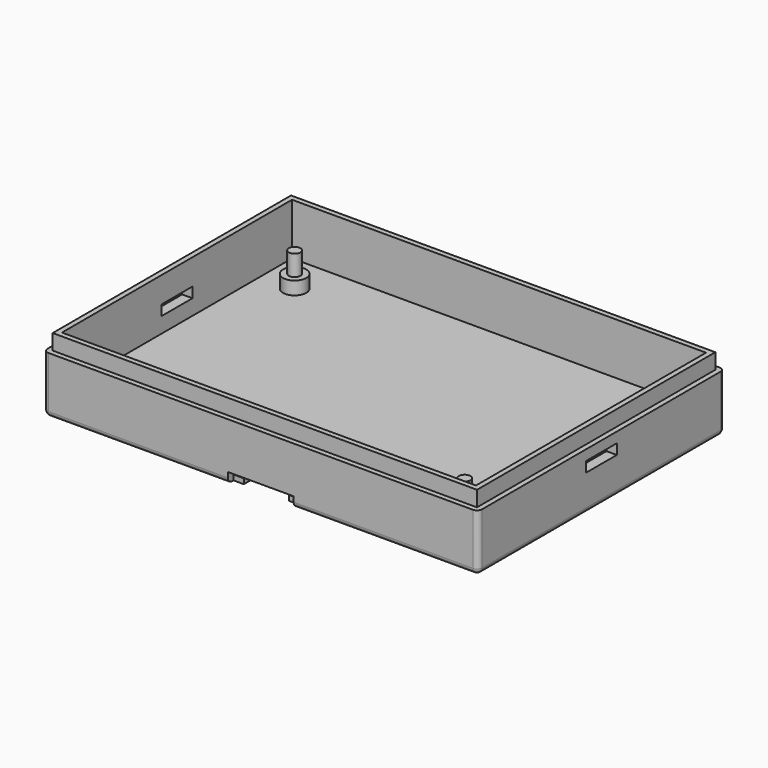
from build123d import *

# Parameters (mm, degrees)
F0_W      = 84.25
F0_H      = 59.75
F0_W_2    = 76.25
F0_H_2    = 51.75
F1_DEPTH  = 14
F2_W      = 80.25
F2_H      = 55.75
F3_DEPTH  = 10
F5_DEPTH  = 62
F6_W      = 12.75
F6_H      = 2.75
F7_DEPTH  = 2
F8_R      = 2.375
F9_DEPTH  = 0.25
F10_W     = 84.25
F10_H     = 59.75
F10_W_2   = 82.25
F10_H_2   = 57.75
F11_DEPTH = 3
F12_W     = 7.5
F12_H     = 2
F13_DEPTH = 85
F14_R     = 1
F15_R     = 2.25
F16_DEPTH = 2.54
F17_R     = 1.125
F18_DEPTH = 4
F19_DEPTH = 2.54
F20_R     = 1.125
F21_DEPTH = 4


with BuildPart() as f1:
    # F0 (on Top) → F1 (new body)
    with BuildSketch(Plane.XY):
        Rectangle(F0_W, F0_H)
        Rectangle(F0_W_2, F0_H_2, mode=Mode.SUBTRACT)
        Rectangle(F0_W_2, F0_H_2)
    extrude(amount=F1_DEPTH)

    # F2 (on face) → F3 (cut)
    with BuildSketch(Plane.XY.offset(14)):
        Rectangle(F2_W, F2_H)
    extrude(amount=-F3_DEPTH, mode=Mode.SUBTRACT)

    # F4 (on face) → F5 (cut)
    with BuildSketch(Plane.XZ.offset(29.875)):
        Polygon((-4.375, 0), (0, 0), (0, 2), (-6.25, 2), (-6.25, 1), (-4.375, 1), align=None)
        Polygon((0, 2), (0, 0), (4.375, 0), (4.375, 1), (6.25, 1), (6.25, 2), align=None)
    extrude(amount=-F5_DEPTH, mode=Mode.SUBTRACT)

    # F6 (on Top) → F7 (cut)
    with BuildSketch(Plane.XY):
        with Locations((0, 29.875)):
            Rectangle(F6_W, F6_H)
        with Locations((0, 14.9375)):
            Rectangle(F6_W, F6_H)
        Rectangle(F6_W, F6_H)
        with Locations((0, -14.9375)):
            Rectangle(F6_W, F6_H)
        with Locations((0, -29.875)):
            Rectangle(F6_W, F6_H)
    extrude(amount=F7_DEPTH, mode=Mode.SUBTRACT)

    # F8 (on face) → F9 (join)
    with BuildSketch(Plane(origin=(0, 0, 2), x_dir=(1, 0, 0), z_dir=(0, 0, -1))):
        with Locations((0, 25.125)):
            Circle(F8_R)
        with Locations((0, 8.375)):
            Circle(F8_R)
        with Locations((0, -8.375)):
            Circle(F8_R)
        with Locations((0, -25.125)):
            Circle(F8_R)
    extrude(amount=F9_DEPTH)

    # F10 (on face) → F11 (cut)
    with BuildSketch(Plane.XY.offset(14)):
        Rectangle(F10_W, F10_H)
        Rectangle(F10_W_2, F10_H_2, mode=Mode.SUBTRACT)
    extrude(amount=-F11_DEPTH, mode=Mode.SUBTRACT)

    # F12 (on face) → F13 (cut)
    with BuildSketch(Plane.YZ.offset(42.125)):
        with Locations((0, 8)):
            Rectangle(F12_W, F12_H)
    extrude(amount=-F13_DEPTH, mode=Mode.SUBTRACT)

    # F14
    f14_edges = [f1.edges().sort_by_distance(p)[0] for p in [
        (24.25, -29.875, 0),
        (42.125, 0, 0),
        (24.25, 29.875, 0),
        (-24.25, 29.875, 0),
        (-42.125, 0, 0),
        (-24.25, -29.875, 0),
        (42.125, -29.875, 5.5),
        (42.125, 29.875, 5.5),
        (-42.125, -29.875, 5.5),
        (-42.125, 29.875, 5.5),
    ]]
    fillet(f14_edges, radius=F14_R)

    # F15 (on face) → F16 (join)
    with BuildSketch(Plane.XY.offset(4)):
        with Locations((-33.625, 20.375)):
            Circle(F15_R)
    extrude(amount=F16_DEPTH)

    # F17 (on face) → F18 (join)
    with BuildSketch(Plane.XY.offset(6.54)):
        with Locations((-33.625, 20.375)):
            Circle(F17_R)
    extrude(amount=F18_DEPTH)

    # F15 (on face) → F19 (join)
    with BuildSketch(Plane.XY.offset(4)):
        with Locations((33.125, -21.875)):
            Circle(F15_R)
    extrude(amount=F19_DEPTH)

    # F20 (on face) → F21 (join)
    with BuildSketch(Plane.XY.offset(6.54)):
        with Locations((33.125, -21.875)):
            Circle(F20_R)
    extrude(amount=F21_DEPTH)


solid = f1.part
